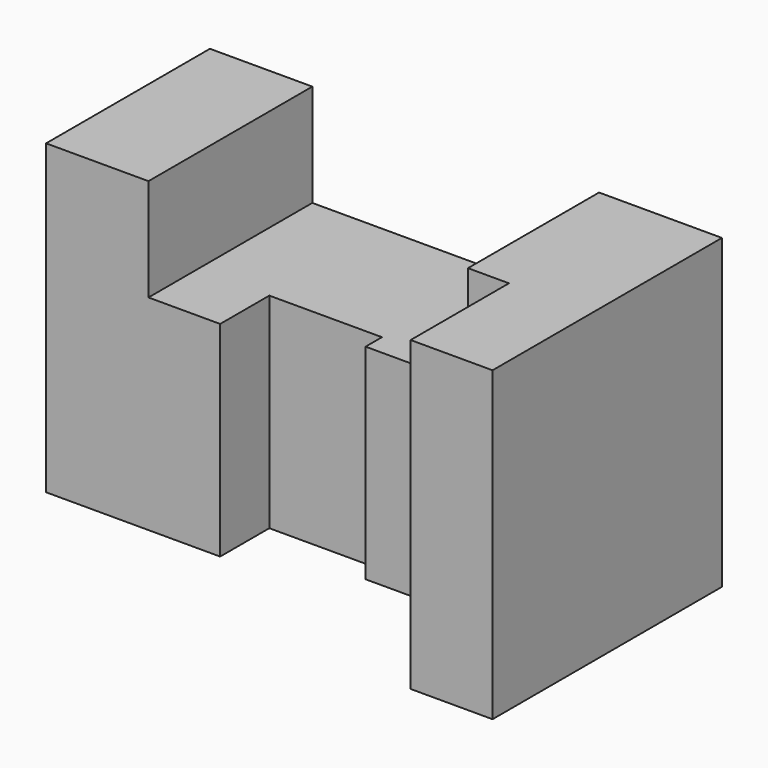
from build123d import *

# Parameters (mm, degrees)
F1_DEPTH = 75
F3_DEPTH = 50.001


with BuildPart() as f1:
    # F0 (on Top) → F1 (new body)
    with BuildSketch(Plane.XY):
        Polygon((0, 50), (0, 0), (42.5, 0), (42.5, 15), (70, 15), (70, 10), (105, 10), (105, -20), (125, -20), (125, 50), align=None)
    extrude(amount=F1_DEPTH)

    # F2 (on face) → F3 (cut, through all)
    with BuildSketch(Plane.XZ):
        Polygon((95, 75), (25, 75), (25, 50), (42.5, 50), (95, 50), align=None)
    extrude(amount=-F3_DEPTH, mode=Mode.SUBTRACT)


solid = f1.part
